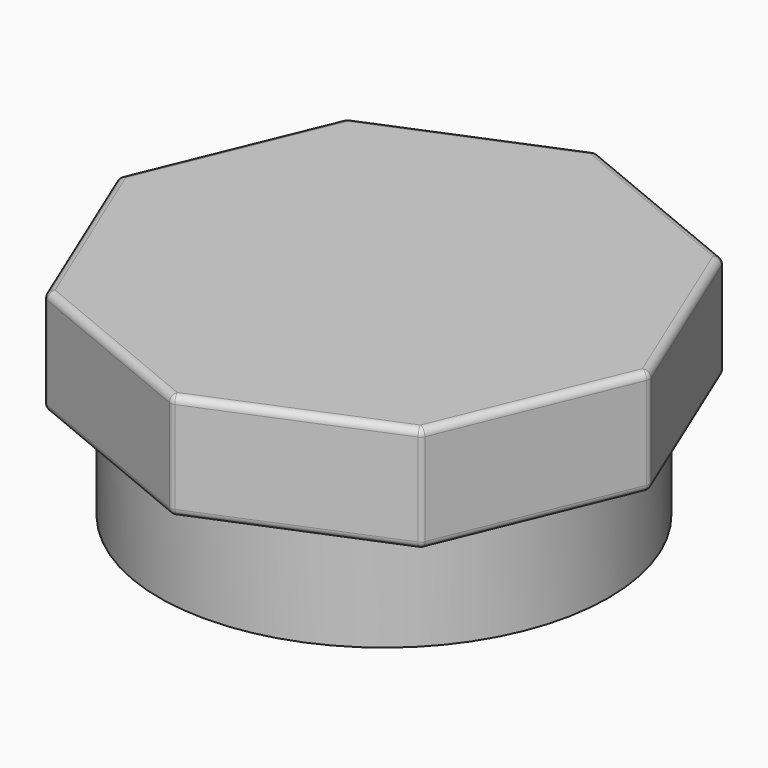
from build123d import *

# Parameters (mm, degrees)
SKETCH_R              = 31.645482
SKETCH_R_2            = 29.645482
PAD_DEPTH             = 15
PAD001_DEPTH          = 15
POLARPATTERN_COUNT    = 11
PAD002_DEPTH          = 15
POLARPATTERN001_COUNT = 8
PAD003_DEPTH          = 15
POLARPATTERN002_COUNT = 5
PAD008_DEPTH          = 15
FILLET_R              = 1


with BuildPart() as part:
    # Sketch → Pad (new body)
    with BuildSketch(Plane.XY):
        Circle(SKETCH_R)
        Circle(SKETCH_R_2, mode=Mode.SUBTRACT)
    extrude(amount=PAD_DEPTH)

    # Sketch001 → Pad001 (join)
    with BuildSketch(Plane.XY):
        with BuildLine():
            ThreePointArc((12.963003, 26.716703), (9.229526, 28.224768), (5.326356, 29.213894))
            ThreePointArc((4.558746, 25.02608), (5.760646, 26.970034), (5.326356, 29.213894))
            ThreePointArc((11.094822, 22.890867), (7.899261, 24.180334), (4.558746, 25.02608))
            ThreePointArc((12.963003, 26.716703), (11.274443, 25.172197), (11.094822, 22.890867))
        make_face()
    pad001 = extrude(amount=PAD001_DEPTH)

    # PolarPattern: Pad001 ×11 about axis
    polarpattern_axis = Axis((0, 0, 0), (0, 0, 1))
    for i in range(1, POLARPATTERN_COUNT):
        add(pad001.rotate(polarpattern_axis, i * 360 / POLARPATTERN_COUNT))

    # Sketch002 → Pad002 (join)
    with BuildSketch(Plane.XY):
        with BuildLine():
            ThreePointArc((5.70123, 20.554284), (1.915861, 21.244107), (-1.931849, 21.24266))
            ThreePointArc((-1.57761, 17.351169), (-1.063314, 19.359853), (-1.931849, 21.24266))
            ThreePointArc((4.649273, 16.790955), (1.561166, 17.352656), (-1.57761, 17.351169))
            ThreePointArc((5.70123, 20.554284), (4.570249, 18.841735), (4.649273, 16.790955))
        make_face()
    pad002 = extrude(amount=PAD002_DEPTH)

    # PolarPattern001: Pad002 ×8 about axis
    polarpattern001_axis = Axis((0, 0, 0), (0, 0, 1))
    for i in range(1, POLARPATTERN001_COUNT):
        add(pad002.rotate(polarpattern001_axis, i * 360 / POLARPATTERN001_COUNT))

    # Sketch003 → Pad003 (join)
    with BuildSketch(Plane.XY):
        with BuildLine():
            ThreePointArc((10.177495, 8.272003), (7.363459, 10.852968), (3.925261, 12.513983))
            ThreePointArc((2.426549, 8.882083), (3.621337, 10.514224), (3.925261, 12.513983))
            ThreePointArc((7.065274, 5.904358), (4.973971, 7.748494), (2.426549, 8.882083))
            ThreePointArc((10.177495, 8.272003), (8.116949, 7.75125), (7.065274, 5.904358))
        make_face()
    pad003 = extrude(amount=PAD003_DEPTH)

    # PolarPattern002: Pad003 ×5 about axis
    polarpattern002_axis = Axis((0, 0, 0), (0, 0, 1))
    for i in range(1, POLARPATTERN002_COUNT):
        add(pad003.rotate(polarpattern002_axis, i * 360 / POLARPATTERN002_COUNT))

    # Sketch008 (on Face3 of PolarPattern002) → Pad008 (join)
    with BuildSketch(Plane.XY.offset(15)):
        Polygon((0, 37.5), (-26.516504, 26.516504), (-37.5, 0), (-26.516504, -26.516504), (0, -37.5), (26.516504, -26.516504), (37.5, 0), (26.516504, 26.516504), align=None)
    extrude(amount=PAD008_DEPTH)

    # Fillet
    fillet_edges = [part.edges().sort_by_distance(p)[0] for p in [
        (-32.008252, 13.258252, 15),
        (-32.008252, 13.258252, 30),
        (-37.5, 0, 22.5),
        (-32.008252, -13.258252, 15),
        (-32.008252, -13.258252, 30),
        (-26.516504, -26.516504, 22.5),
        (-13.258252, -32.008252, 15),
        (-13.258252, -32.008252, 30),
        (0, -37.5, 22.5),
        (-26.516504, 26.516504, 22.5),
        (-13.258252, 32.008252, 30),
        (-13.258252, 32.008252, 15),
        (0, 37.5, 22.5),
        (13.258252, 32.008252, 30),
        (32.008252, 13.258252, 30),
        (32.008252, -13.258252, 30),
        (13.258252, -32.008252, 30),
        (13.258252, -32.008252, 15),
        (26.516504, -26.516504, 22.5),
        (32.008252, -13.258252, 15),
        (37.5, 0, 22.5),
        (32.008252, 13.258252, 15),
        (26.516504, 26.516504, 22.5),
        (13.258252, 32.008252, 15),
    ]]
    fillet(fillet_edges, radius=FILLET_R)


solid = part.part
